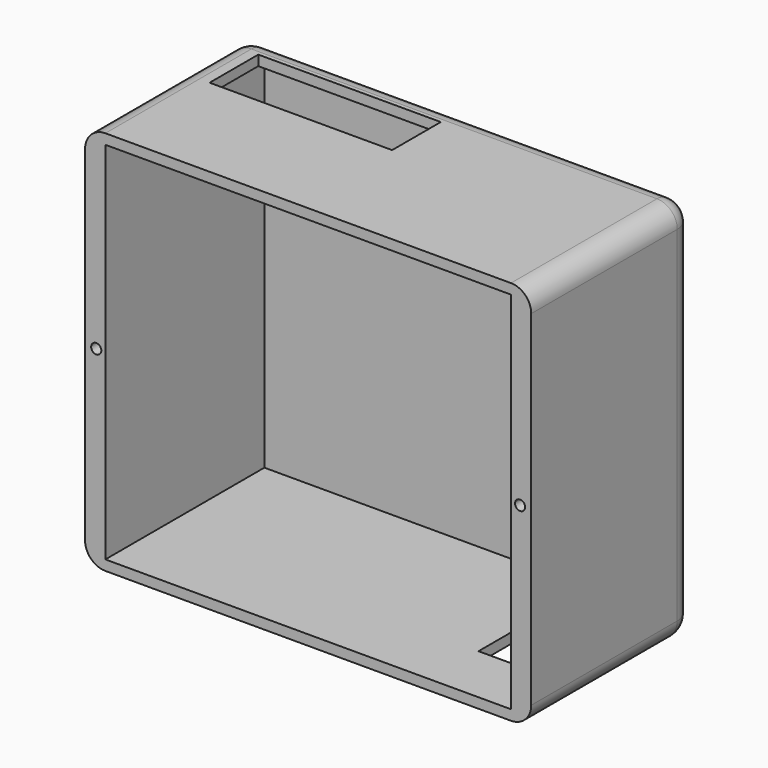
from build123d import *

# Parameters (mm, degrees)
F0_W      = 110
F0_H      = 95
F1_DEPTH  = 50
F2_W      = 100
F2_H      = 90
F3_DEPTH  = 49
F4_R      = 1.25
F5_DEPTH  = 5
F6_R      = 5
F7_W      = 45
F7_H      = 15
F8_DEPTH  = 25
F9_W      = 10
F9_H      = 10
F10_DEPTH = 5


with BuildPart() as f1:
    # F0 (on Front) → F1 (new body)
    with BuildSketch(Plane.XZ):
        with Locations((-17.189732, -22.157951)):
            Rectangle(F0_W, F0_H)
    extrude(amount=F1_DEPTH)

    # F2 (on face) → F3 (cut)
    with BuildSketch(Plane.XZ.offset(50)):
        with Locations((-17.189732, -22.157951)):
            Rectangle(F2_W, F2_H)
    extrude(amount=-F3_DEPTH, mode=Mode.SUBTRACT)

    # F4 (on face) → F5 (cut)
    with BuildSketch(Plane.XZ.offset(50)):
        with Locations((-69.439732, -22.157951)):
            Circle(F4_R)
        with Locations((35.060268, -22.157951)):
            Circle(F4_R)
    extrude(amount=-F5_DEPTH, mode=Mode.SUBTRACT)

    # F6
    f6_edges = [f1.edges().sort_by_distance(p)[0] for p in [
        (-72.189732, -25, -69.657951),
        (-72.189732, -25, 25.342049),
        (37.810268, -25, -69.657951),
        (37.810268, -25, 25.342049),
        (37.810268, 0, -22.157951),
        (-72.189732, 0, -22.157951),
        (-17.189732, 0, -69.657951),
        (-17.189732, 0, 25.342049),
    ]]
    fillet(f6_edges, radius=F6_R)

    # F7 (on face) → F8 (cut)
    with BuildSketch(Plane.XY.offset(25.342049)):
        with Locations((-42.189732, -13.5)):
            Rectangle(F7_W, F7_H)
    extrude(amount=-F8_DEPTH, mode=Mode.SUBTRACT)

    # F9 (on face) → F10 (cut)
    with BuildSketch(Plane(origin=(0, 0, -69.657951), x_dir=(1, 0, 0), z_dir=(0, 0, -1))):
        with Locations((17.810268, 30)):
            Rectangle(F9_W, F9_H)
    extrude(amount=-F10_DEPTH, mode=Mode.SUBTRACT)


solid = f1.part
